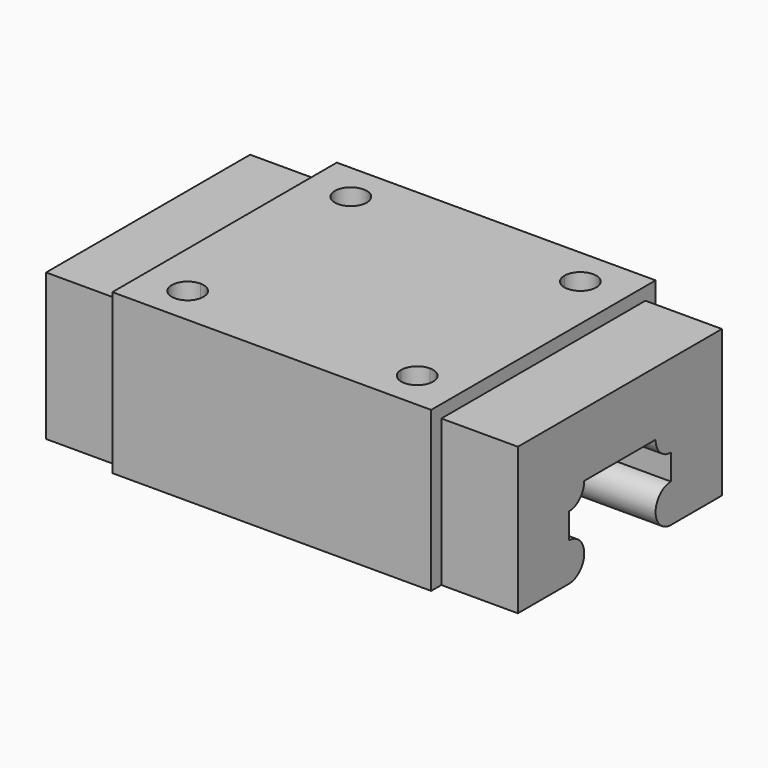
from build123d import *

# Parameters (mm, degrees)
F1_DEPTH = 74
F2_W     = 12
F2_H     = 44
F3_DEPTH = 2
F4_W     = 12
F4_H     = 2
F5_DEPTH = 25
F7_DEPTH = 8


with BuildPart() as f1:
    # F0 (on Right) → F1 (new body)
    with BuildSketch(Plane.YZ):
        with BuildLine():
            ThreePointArc((-26.041336, 5), (-23.041336, 8), (-26.041336, 11))
            Line((-26.041336, 11), (-26.041336, 15))
            ThreePointArc((-26.041336, 15), (-23.920016, 15.87868), (-23.041336, 18))
            Line((-23.041336, 18), (-9.041336, 18))
            ThreePointArc((-9.041336, 18), (-8.162657, 15.87868), (-6.041336, 15))
            Line((-6.041336, 15), (-6.041336, 11))
            ThreePointArc((-6.041336, 11), (-9.041336, 8), (-6.041336, 5))
            Line((-6.041336, 5), (5.958664, 5))
            Line((5.958664, 5), (5.958664, 30))
            Line((5.958664, 30), (-38.041336, 30))
            Line((-38.041336, 30), (-38.041336, 5))
            Line((-38.041336, 5), (-26.041336, 5))
        make_face()
    extrude(amount=F1_DEPTH)

    # F2 (on face) → F3 (cut)
    with BuildSketch(Plane.XY.offset(30)):
        with Locations((68, -16.041336)):
            Rectangle(F2_W, F2_H)
        with Locations((6, -16.041336)):
            Rectangle(F2_W, F2_H)
    extrude(amount=-F3_DEPTH, mode=Mode.SUBTRACT)

    # F4 (on face) → F5 (cut)
    with BuildSketch(Plane.XY.offset(30)):
        with Locations((6, 4.958664)):
            Rectangle(F4_W, F4_H)
        with Locations((6, -37.041336)):
            Rectangle(F4_W, F4_H)
        with Locations((68, -37.041336)):
            Rectangle(F4_W, F4_H)
        with Locations((68, 4.958664)):
            Rectangle(F4_W, F4_H)
    extrude(amount=-F5_DEPTH, mode=Mode.SUBTRACT)

    # F6 (on face) → F7 (cut)
    with BuildSketch(Plane.XY.offset(30)):
        with BuildLine():
            ThreePointArc((21.5, -0.041336), (17.232233, 1.726431), (19, -2.541336))
            ThreePointArc((19, -2.541336), (20.767767, -1.809103), (21.5, -0.041336))
        make_face()
        with BuildLine():
            ThreePointArc((52.5, -0.041336), (53.232233, -1.809103), (55, -2.541336))
            ThreePointArc((55, -2.541336), (56.767767, -1.809103), (57.5, -0.041336))
            ThreePointArc((57.5, -0.041336), (55, 2.458664), (52.5, -0.041336))
        make_face()
        with BuildLine():
            ThreePointArc((55, -29.541336), (53.232233, -30.273569), (52.5, -32.041336))
            ThreePointArc((52.5, -32.041336), (55, -34.541336), (57.5, -32.041336))
            ThreePointArc((57.5, -32.041336), (56.767767, -30.273569), (55, -29.541336))
        make_face()
        with BuildLine():
            ThreePointArc((19, -29.541336), (17.232233, -33.809103), (21.5, -32.041336))
            ThreePointArc((21.5, -32.041336), (20.767767, -30.273569), (19, -29.541336))
        make_face()
    extrude(amount=-F7_DEPTH, mode=Mode.SUBTRACT)


solid = f1.part
